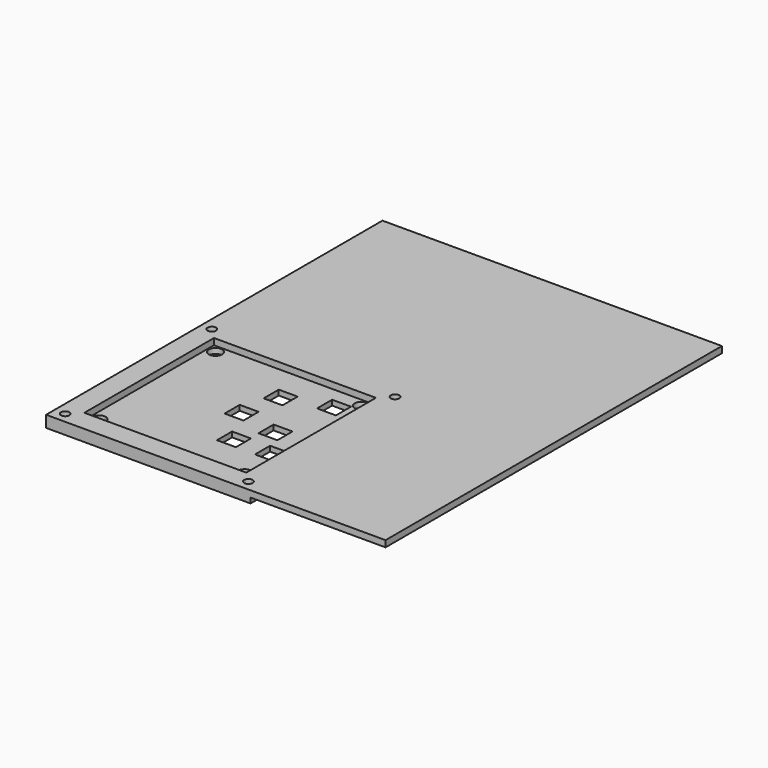
from build123d import *

# Parameters (mm, degrees)
F0_R     = 2
F1_DEPTH = 3
F0_R_2   = 3.175
F0_W     = 8.89
F0_H     = 8.89
F2_DEPTH = 2.46
F3_DEPTH = 3


with BuildPart() as f1:
    # F0 (on Top) → F1 (new body)
    with BuildSketch(Plane.XY):
        Polygon((-49.1249652207, 30.2994954109), (-49.1249652207, 20.2994954109), (-48.8709652207, 20.2994954109), (-45.1879652207, 20.2994954109), (23.1380347793, 20.2994954109), (26.8210347793, 20.2994954109), (27.0750347793, 20.2994954109), (27.0750347793, 20.4264954109), (27.0750347793, 30.2994954109), align=None)
        Polygon((-59.1249652207, 25.2994954109), (-59.1249652207, 20.2994954109), (-54.1249652207, 20.2994954109), (-49.1249652207, 20.2994954109), (-49.1249652207, 30.2994954109), (-59.1249652207, 30.2994954109), align=None)
        with Locations((-54.1249652207, 25.2994954109)):
            Circle(F0_R, mode=Mode.SUBTRACT)
        Polygon((-59.1249652207, -60.9005045891), (-59.1249652207, -65.9005045891), (-54.1249652207, -65.9005045891), (-49.1249652207, -65.9005045891), (-49.1249652207, -55.9005045891), (-59.1249652207, -55.9005045891), align=None)
        with Locations((-54.1249652207, -60.9005045891)):
            Circle(F0_R, mode=Mode.SUBTRACT)
        Polygon((-59.1249652207, -30.5005045891), (-59.1249652207, -55.9005045891), (-49.1249652207, -55.9005045891), (-49.1249652207, -55.6465045891), (-49.1249652207, -54.1503839195), (-49.1249652207, -51.9635045891), (-49.1249652207, -30.5005045891), align=None)
        Polygon((-59.1249652207, 20.2994954109), (-59.1249652207, -30.5005045891), (-49.1249652207, -30.5005045891), (-49.1249652207, 16.3624954109), (-49.1249652207, 20.0454954109), (-49.1249652207, 20.2994954109), (-54.1249652207, 20.2994954109), align=None)
        Polygon((-59.1249652207, 25.2994954109), (-59.1249652207, 20.2994954109), (-54.1249652207, 20.2994954109), (-49.1249652207, 20.2994954109), (-49.1249652207, 30.2994954109), (-59.1249652207, 30.2994954109), align=None)
        with Locations((-54.1249652207, 25.2994954109)):
            Circle(F0_R, mode=Mode.SUBTRACT)
        Polygon((27.0750347793, -55.6465045891), (27.0750347793, -55.9005045891), (27.1951819298, -55.9005045891), (37.0750347793, -55.9005045891), (37.0750347793, 20.2994954109), (32.0750347793, 20.2994954109), (27.3221819298, 20.2994954109), (27.0750347793, 20.2994954109), (27.0750347793, 20.0454954109), (27.0750347793, 16.3624954109), (27.0750347793, 4.7038954109), (27.0750347793, -1.2905045891), (27.0750347793, -19.7055045891), (27.0750347793, -24.1505045891), (27.0750347793, -37.9935045891), (27.0750347793, -38.1205045891), (27.0750347793, -51.9635045891), align=None)
        Polygon((32.0750347793, 20.2994954109), (37.0750347793, 20.2994954109), (37.0750347793, 25.2994954109), (37.0750347793, 30.2994954109), (27.0750347793, 30.2994954109), (27.0750347793, 20.4264954109), (27.0750347793, 20.2994954109), (27.3221819298, 20.2994954109), align=None)
        with Locations((32.0750347793, 25.2994954109)):
            Circle(F0_R, mode=Mode.SUBTRACT)
        Polygon((27.0750347793, -55.9005045891), (27.0750347793, -65.9005045891), (32.0750347793, -65.9005045891), (37.0750347793, -65.9005045891), (37.0750347793, -60.9005045891), (37.0750347793, -55.9005045891), (27.1951819298, -55.9005045891), align=None)
        with Locations((32.0750347793, -60.9005045891)):
            Circle(F0_R, mode=Mode.SUBTRACT)
        Polygon((-59.1249652207, -60.9005045891), (-59.1249652207, -65.9005045891), (-54.1249652207, -65.9005045891), (-49.1249652207, -65.9005045891), (-49.1249652207, -55.9005045891), (-59.1249652207, -55.9005045891), align=None)
        with Locations((-54.1249652207, -60.9005045891)):
            Circle(F0_R, mode=Mode.SUBTRACT)
        Polygon((-49.1249652207, -55.9005045891), (-49.1249652207, -65.9005045891), (27.0750347793, -65.9005045891), (27.0750347793, -55.9005045891), (26.8210347793, -55.9005045891), (26.5670347793, -55.9005045891), (24.5350347793, -55.9005045891), (23.5190347793, -55.9005045891), (23.1380347793, -55.9005045891), (6.5518347793, -55.9005045891), (-0.8649652207, -55.9005045891), (-4.4971652207, -55.9005045891), (-45.1879652207, -55.9005045891), (-48.8709652207, -55.9005045891), align=None)
        Polygon((27.0750347793, -55.9005045891), (27.0750347793, -65.9005045891), (32.0750347793, -65.9005045891), (37.0750347793, -65.9005045891), (37.0750347793, -60.9005045891), (37.0750347793, -55.9005045891), (27.1951819298, -55.9005045891), align=None)
        with Locations((32.0750347793, -60.9005045891)):
            Circle(F0_R, mode=Mode.SUBTRACT)
        Polygon((-59.1249652207, -60.9005045891), (-59.1249652207, -65.9005045891), (-54.1249652207, -65.9005045891), (-49.1249652207, -65.9005045891), (-49.1249652207, -55.9005045891), (-59.1249652207, -55.9005045891), align=None)
        with Locations((-54.1249652207, -60.9005045891)):
            Circle(F0_R, mode=Mode.SUBTRACT)
        Polygon((-59.1249652207, -30.5005045891), (-59.1249652207, -55.9005045891), (-49.1249652207, -55.9005045891), (-49.1249652207, -55.6465045891), (-49.1249652207, -54.1503839195), (-49.1249652207, -51.9635045891), (-49.1249652207, -30.5005045891), align=None)
        Polygon((-59.1249652207, -60.9005045891), (-59.1249652207, -65.9005045891), (-54.1249652207, -65.9005045891), (-49.1249652207, -65.9005045891), (-49.1249652207, -55.9005045891), (-59.1249652207, -55.9005045891), align=None)
        with Locations((-54.1249652207, -60.9005045891)):
            Circle(F0_R, mode=Mode.SUBTRACT)
        Polygon((-49.1249652207, -55.9005045891), (-49.1249652207, -65.9005045891), (27.0750347793, -65.9005045891), (27.0750347793, -55.9005045891), (26.8210347793, -55.9005045891), (26.5670347793, -55.9005045891), (24.5350347793, -55.9005045891), (23.5190347793, -55.9005045891), (23.1380347793, -55.9005045891), (6.5518347793, -55.9005045891), (-0.8649652207, -55.9005045891), (-4.4971652207, -55.9005045891), (-45.1879652207, -55.9005045891), (-48.8709652207, -55.9005045891), align=None)
        Polygon((27.0750347793, -55.9005045891), (27.0750347793, -65.9005045891), (32.0750347793, -65.9005045891), (37.0750347793, -65.9005045891), (37.0750347793, -60.9005045891), (37.0750347793, -55.9005045891), (27.1951819298, -55.9005045891), align=None)
        with Locations((32.0750347793, -60.9005045891)):
            Circle(F0_R, mode=Mode.SUBTRACT)
    extrude(amount=F1_DEPTH)

    # F0 (on Top) → F2 (join)
    with BuildSketch(Plane.XY):
        Polygon((32.0750347793, 20.2994954109), (37.0750347793, 20.2994954109), (37.0750347793, 25.2994954109), (37.0750347793, 30.2994954109), (27.0750347793, 30.2994954109), (27.0750347793, 20.4264954109), (27.0750347793, 20.2994954109), (27.3221819298, 20.2994954109), align=None)
        with Locations((32.0750347793, 25.2994954109)):
            Circle(F0_R, mode=Mode.SUBTRACT)
        Polygon((27.0750347793, -55.6465045891), (27.0750347793, -55.9005045891), (27.1951819298, -55.9005045891), (37.0750347793, -55.9005045891), (37.0750347793, 20.2994954109), (32.0750347793, 20.2994954109), (27.3221819298, 20.2994954109), (27.0750347793, 20.2994954109), (27.0750347793, 20.0454954109), (27.0750347793, 16.3624954109), (27.0750347793, 4.7038954109), (27.0750347793, -1.2905045891), (27.0750347793, -19.7055045891), (27.0750347793, -24.1505045891), (27.0750347793, -37.9935045891), (27.0750347793, -38.1205045891), (27.0750347793, -51.9635045891), align=None)
        Polygon((-49.1249652207, 30.2994954109), (-49.1249652207, 20.2994954109), (-48.8709652207, 20.2994954109), (-45.1879652207, 20.2994954109), (23.1380347793, 20.2994954109), (26.8210347793, 20.2994954109), (27.0750347793, 20.2994954109), (27.0750347793, 20.4264954109), (27.0750347793, 30.2994954109), align=None)
        Polygon((-59.1249652207, 25.2994954109), (-59.1249652207, 20.2994954109), (-54.1249652207, 20.2994954109), (-49.1249652207, 20.2994954109), (-49.1249652207, 30.2994954109), (-59.1249652207, 30.2994954109), align=None)
        with Locations((-54.1249652207, 25.2994954109)):
            Circle(F0_R, mode=Mode.SUBTRACT)
        Polygon((-59.1249652207, 20.2994954109), (-59.1249652207, -30.5005045891), (-49.1249652207, -30.5005045891), (-49.1249652207, 16.3624954109), (-49.1249652207, 20.0454954109), (-49.1249652207, 20.2994954109), (-54.1249652207, 20.2994954109), align=None)
        Polygon((-59.1249652207, -60.9005045891), (-59.1249652207, -65.9005045891), (-54.1249652207, -65.9005045891), (-49.1249652207, -65.9005045891), (-49.1249652207, -55.9005045891), (-59.1249652207, -55.9005045891), align=None)
        with Locations((-54.1249652207, -60.9005045891)):
            Circle(F0_R, mode=Mode.SUBTRACT)
        Polygon((-59.1249652207, -30.5005045891), (-59.1249652207, -55.9005045891), (-49.1249652207, -55.9005045891), (-49.1249652207, -55.6465045891), (-49.1249652207, -54.1503839195), (-49.1249652207, -51.9635045891), (-49.1249652207, -30.5005045891), align=None)
        Polygon((-59.1249652207, 20.2994954109), (-59.1249652207, -30.5005045891), (-49.1249652207, -30.5005045891), (-49.1249652207, 16.3624954109), (-49.1249652207, 20.0454954109), (-49.1249652207, 20.2994954109), (-54.1249652207, 20.2994954109), align=None)
        Polygon((-59.1249652207, 25.2994954109), (-59.1249652207, 20.2994954109), (-54.1249652207, 20.2994954109), (-49.1249652207, 20.2994954109), (-49.1249652207, 30.2994954109), (-59.1249652207, 30.2994954109), align=None)
        with Locations((-54.1249652207, 25.2994954109)):
            Circle(F0_R, mode=Mode.SUBTRACT)
        Polygon((-59.1249652207, -60.9005045891), (-59.1249652207, -65.9005045891), (-54.1249652207, -65.9005045891), (-49.1249652207, -65.9005045891), (-49.1249652207, -55.9005045891), (-59.1249652207, -55.9005045891), align=None)
        with Locations((-54.1249652207, -60.9005045891)):
            Circle(F0_R, mode=Mode.SUBTRACT)
        Polygon((-59.1249652207, -60.9005045891), (-59.1249652207, -65.9005045891), (-54.1249652207, -65.9005045891), (-49.1249652207, -65.9005045891), (-49.1249652207, -55.9005045891), (-59.1249652207, -55.9005045891), align=None)
        with Locations((-54.1249652207, -60.9005045891)):
            Circle(F0_R, mode=Mode.SUBTRACT)
        Polygon((-49.1249652207, -55.9005045891), (-49.1249652207, -65.9005045891), (27.0750347793, -65.9005045891), (27.0750347793, -55.9005045891), (26.8210347793, -55.9005045891), (26.5670347793, -55.9005045891), (24.5350347793, -55.9005045891), (23.5190347793, -55.9005045891), (23.1380347793, -55.9005045891), (6.5518347793, -55.9005045891), (-0.8649652207, -55.9005045891), (-4.4971652207, -55.9005045891), (-45.1879652207, -55.9005045891), (-48.8709652207, -55.9005045891), align=None)
        Polygon((27.0750347793, -55.9005045891), (27.0750347793, -65.9005045891), (32.0750347793, -65.9005045891), (37.0750347793, -65.9005045891), (37.0750347793, -60.9005045891), (37.0750347793, -55.9005045891), (27.1951819298, -55.9005045891), align=None)
        with Locations((32.0750347793, -60.9005045891)):
            Circle(F0_R, mode=Mode.SUBTRACT)
        Polygon((27.0750347793, -55.9005045891), (27.0750347793, -65.9005045891), (32.0750347793, -65.9005045891), (37.0750347793, -65.9005045891), (37.0750347793, -60.9005045891), (37.0750347793, -55.9005045891), (27.1951819298, -55.9005045891), align=None)
        with Locations((32.0750347793, -60.9005045891)):
            Circle(F0_R, mode=Mode.SUBTRACT)
        Polygon((-49.1249652207, -55.6465045891), (-49.1249652207, -55.9005045891), (-48.8709652207, -55.9005045891), (-45.1879652207, -55.9005045891), (-4.4971652207, -55.9005045891), (-0.8649652207, -55.9005045891), (6.5518347793, -55.9005045891), (23.1380347793, -55.9005045891), (23.5190347793, -55.9005045891), (24.5350347793, -55.9005045891), (26.5670347793, -55.9005045891), (26.8210347793, -55.9005045891), (27.0750347793, -55.9005045891), (27.0750347793, -55.6465045891), (27.0750347793, -51.9635045891), (27.0750347793, -38.1205045891), (27.0750347793, -37.9935045891), (27.0750347793, -24.1505045891), (27.0750347793, -19.7055045891), (27.0750347793, -1.2905045891), (27.0750347793, 4.7038954109), (27.0750347793, 16.3624954109), (27.0750347793, 20.0454954109), (27.0750347793, 20.2994954109), (26.8210347793, 20.2994954109), (23.1380347793, 20.2994954109), (-45.1879652207, 20.2994954109), (-48.8709652207, 20.2994954109), (-49.1249652207, 20.2994954109), (-49.1249652207, 20.0454954109), (-49.1249652207, 16.3624954109), (-49.1249652207, -30.5005045891), (-49.1249652207, -51.9635045891), (-49.1249652207, -54.1503839195), align=None)
        with Locations((-45.3249652207, -52.1005045891)):
            Circle(F0_R_2, mode=Mode.SUBTRACT)
        with Locations((3.3768347793, -33.5485045891)):
            Rectangle(F0_W, F0_H, mode=Mode.SUBTRACT)
        with Locations((11.8350347793, -19.7055045891)):
            Rectangle(F0_W, F0_H, mode=Mode.SUBTRACT)
        with Locations((-45.3249652207, 16.4994954109)):
            Circle(F0_R_2, mode=Mode.SUBTRACT)
        with Locations((-7.6721652207, -15.2605045891)):
            Rectangle(F0_W, F0_H, mode=Mode.SUBTRACT)
        with Locations((-4.0399652207, 3.1544954109)):
            Rectangle(F0_W, F0_H, mode=Mode.SUBTRACT)
        with Locations((16.2800347793, 9.1488954109)):
            Rectangle(F0_W, F0_H, mode=Mode.SUBTRACT)
        with Locations((23.2750347793, -52.1005045891)):
            Circle(F0_R_2, mode=Mode.SUBTRACT)
        with Locations((21.3600347793, -33.6755045891)):
            Rectangle(F0_W, F0_H, mode=Mode.SUBTRACT)
        with Locations((23.2750347793, 16.4994954109)):
            Circle(F0_R_2, mode=Mode.SUBTRACT)
        Polygon((-59.1249652207, -30.5005045891), (-59.1249652207, -55.9005045891), (-49.1249652207, -55.9005045891), (-49.1249652207, -55.6465045891), (-49.1249652207, -54.1503839195), (-49.1249652207, -51.9635045891), (-49.1249652207, -30.5005045891), align=None)
        Polygon((-59.1249652207, -60.9005045891), (-59.1249652207, -65.9005045891), (-54.1249652207, -65.9005045891), (-49.1249652207, -65.9005045891), (-49.1249652207, -55.9005045891), (-59.1249652207, -55.9005045891), align=None)
        with Locations((-54.1249652207, -60.9005045891)):
            Circle(F0_R, mode=Mode.SUBTRACT)
        Polygon((-49.1249652207, -55.9005045891), (-49.1249652207, -65.9005045891), (27.0750347793, -65.9005045891), (27.0750347793, -55.9005045891), (26.8210347793, -55.9005045891), (26.5670347793, -55.9005045891), (24.5350347793, -55.9005045891), (23.5190347793, -55.9005045891), (23.1380347793, -55.9005045891), (6.5518347793, -55.9005045891), (-0.8649652207, -55.9005045891), (-4.4971652207, -55.9005045891), (-45.1879652207, -55.9005045891), (-48.8709652207, -55.9005045891), align=None)
        Polygon((27.0750347793, -55.9005045891), (27.0750347793, -65.9005045891), (32.0750347793, -65.9005045891), (37.0750347793, -65.9005045891), (37.0750347793, -60.9005045891), (37.0750347793, -55.9005045891), (27.1951819298, -55.9005045891), align=None)
        with Locations((32.0750347793, -60.9005045891)):
            Circle(F0_R, mode=Mode.SUBTRACT)
    extrude(amount=-F2_DEPTH)

    # F0 (on Top) → F3 (join)
    with BuildSketch(Plane.XY):
        Polygon((-59.1249652207, -60.9005045891), (-59.1249652207, -65.9005045891), (-54.1249652207, -65.9005045891), (-49.1249652207, -65.9005045891), (-49.1249652207, -55.9005045891), (-59.1249652207, -55.9005045891), align=None)
        with Locations((-54.1249652207, -60.9005045891)):
            Circle(F0_R, mode=Mode.SUBTRACT)
        Polygon((-49.1249652207, -55.9005045891), (-49.1249652207, -65.9005045891), (27.0750347793, -65.9005045891), (27.0750347793, -55.9005045891), (26.8210347793, -55.9005045891), (26.5670347793, -55.9005045891), (24.5350347793, -55.9005045891), (23.5190347793, -55.9005045891), (23.1380347793, -55.9005045891), (6.5518347793, -55.9005045891), (-0.8649652207, -55.9005045891), (-4.4971652207, -55.9005045891), (-45.1879652207, -55.9005045891), (-48.8709652207, -55.9005045891), align=None)
        Polygon((-59.1249652207, -30.5005045891), (-59.1249652207, -55.9005045891), (-49.1249652207, -55.9005045891), (-49.1249652207, -55.6465045891), (-49.1249652207, -54.1503839195), (-49.1249652207, -51.9635045891), (-49.1249652207, -30.5005045891), align=None)
        Polygon((27.0750347793, -55.9005045891), (27.0750347793, -65.9005045891), (32.0750347793, -65.9005045891), (37.0750347793, -65.9005045891), (37.0750347793, -60.9005045891), (37.0750347793, -55.9005045891), (27.1951819298, -55.9005045891), align=None)
        with Locations((32.0750347793, -60.9005045891)):
            Circle(F0_R, mode=Mode.SUBTRACT)
        Polygon((-59.1249652207, 20.2994954109), (-59.1249652207, -30.5005045891), (-49.1249652207, -30.5005045891), (-49.1249652207, 16.3624954109), (-49.1249652207, 20.0454954109), (-49.1249652207, 20.2994954109), (-54.1249652207, 20.2994954109), align=None)
        Polygon((-59.1249652207, 25.2994954109), (-59.1249652207, 20.2994954109), (-54.1249652207, 20.2994954109), (-49.1249652207, 20.2994954109), (-49.1249652207, 30.2994954109), (-59.1249652207, 30.2994954109), align=None)
        with Locations((-54.1249652207, 25.2994954109)):
            Circle(F0_R, mode=Mode.SUBTRACT)
        Polygon((37.0750347793, -60.9005045891), (37.0750347793, -65.9005045891), (100.5648347793, -65.9005045891), (100.5648347793, 131.8892954109), (-59.1249652207, 131.8892954109), (-59.1249652207, 30.2994954109), (-49.1249652207, 30.2994954109), (27.0750347793, 30.2994954109), (37.0750347793, 30.2994954109), (37.0750347793, 25.2994954109), (37.0750347793, 20.2994954109), (37.0750347793, -55.9005045891), align=None)
    extrude(amount=F3_DEPTH)


solid = f1.part
